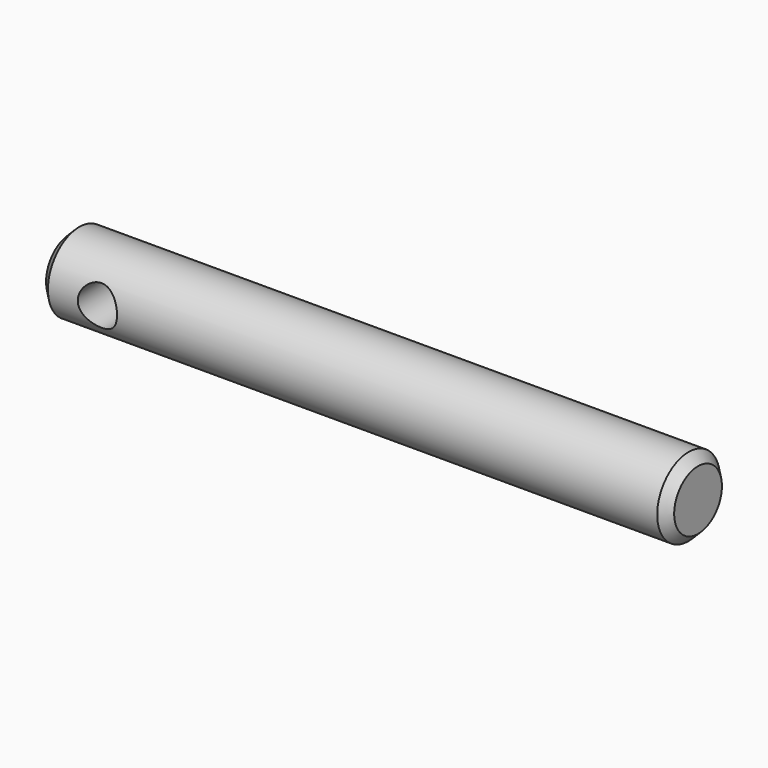
from build123d import *

# Parameters (mm, degrees)
F0_R     = 3.175
F1_DEPTH = 50.8
F2_SIZE  = 0.762
F3_R     = 1.5875
F4_DEPTH = 6.35


with BuildPart() as f1:
    # F0 (on Right) → F1 (new body)
    with BuildSketch(Plane.YZ):
        Circle(F0_R)
    extrude(amount=F1_DEPTH)

    # F2
    f2_edges = [f1.edges().sort_by_distance(p)[0] for p in [
        (25.4, 3.175, 0),
        (0, -3.175, 0),
        (50.8, -3.175, 0),
    ]]
    chamfer(f2_edges, length=F2_SIZE)


with BuildPart() as f4:
    # F3 (on Front) → F4 (new body, symmetric)
    with BuildSketch(Plane.XZ):
        with Locations((4.7625, 0)):
            Circle(F3_R)
    extrude(amount=F4_DEPTH, both=True)


with BuildPart() as f1_1:
    add(f1.part)

    # F5: cut F4
    add(f4.part, mode=Mode.SUBTRACT)


solid = f1_1.part
